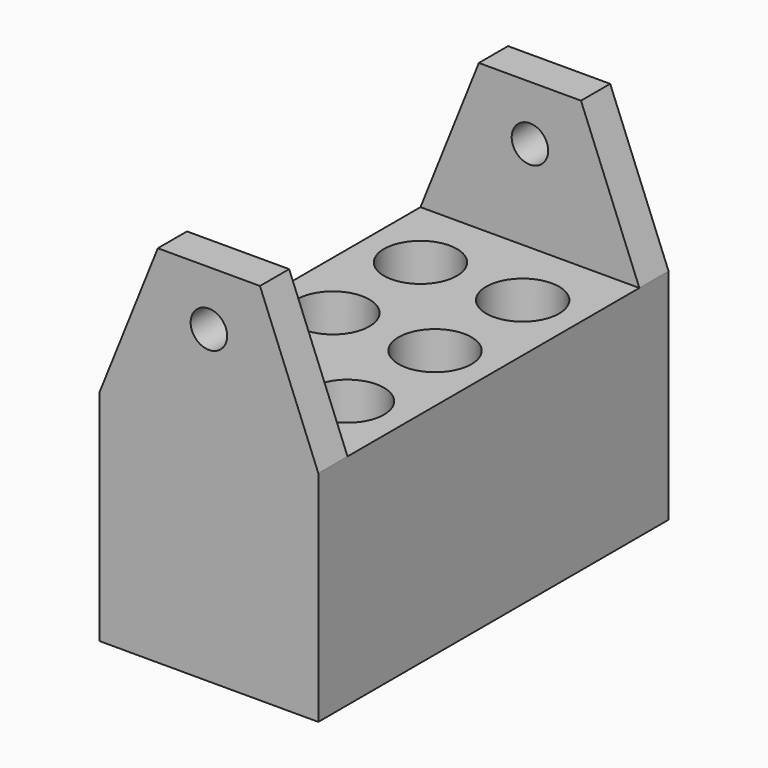
from build123d import *

# Parameters (mm, degrees)
F0_W       = 38.1
F0_H       = 76.2
F0_R       = 6.35
F1_DEPTH   = 38.1
F2_DEPTH   = 12.7
F3_W       = 38.1
F3_H       = 6.35
F4_DEPTH   = 25.4
F5_SIZE2   = 10.16
F5_SIZE    = 25.4
F6_SIZE2   = 10.16
F6_SIZE    = 25.4
F6_2_SIZE2 = 10.16
F6_2_SIZE  = 25.4
F7_R       = 3.175
F8_DEPTH   = 105.84064


with BuildPart() as f1:
    # F0 (on Top) → F1 (new body)
    with BuildSketch(Plane.XY):
        with Locations((19.05, 38.1)):
            Rectangle(F0_W, F0_H)
        with Locations((10.16, 19.05)):
            Circle(F0_R, mode=Mode.SUBTRACT)
        with Locations((27.94, 19.05)):
            Circle(F0_R, mode=Mode.SUBTRACT)
        with Locations((10.16, 38.1)):
            Circle(F0_R, mode=Mode.SUBTRACT)
        with Locations((10.16, 57.15)):
            Circle(F0_R, mode=Mode.SUBTRACT)
        with Locations((27.94, 38.1)):
            Circle(F0_R, mode=Mode.SUBTRACT)
        with Locations((27.94, 57.15)):
            Circle(F0_R, mode=Mode.SUBTRACT)
    extrude(amount=F1_DEPTH)

    # F0 (on Top) → F2 (join)
    with BuildSketch(Plane.XY):
        with Locations((10.16, 57.15)):
            Circle(F0_R)
        with Locations((27.94, 57.15)):
            Circle(F0_R)
        with Locations((27.94, 38.1)):
            Circle(F0_R)
        with Locations((10.16, 19.05)):
            Circle(F0_R)
        with Locations((27.94, 19.05)):
            Circle(F0_R)
        with Locations((10.16, 38.1)):
            Circle(F0_R)
    extrude(amount=F2_DEPTH)

    # F3 (on face) → F4 (join)
    with BuildSketch(Plane.XY.offset(38.1)):
        with Locations((19.05, 73.025)):
            Rectangle(F3_W, F3_H)
        with Locations((19.05, 3.175)):
            Rectangle(F3_W, F3_H)
    extrude(amount=F4_DEPTH)

    # F5
    f5_edges = [f1.edges().sort_by_distance(p)[0] for p in [
        (38.1, 73.025, 63.5),
        (0, 73.025, 63.5),
    ]]
    chamfer(f5_edges, length=F5_SIZE, length2=F5_SIZE2)

    # F6
    f6_edges = [f1.edges().sort_by_distance(p)[0] for p in [
        (38.1, 3.175, 63.5),
    ]]
    f6_side = f1.faces().sort_by_distance((38.1, 36.261842, 20.721053))[0]
    chamfer(f6_edges, length=F6_SIZE, length2=F6_SIZE2, reference=f6_side)

    # F6#2
    f6_2_edges = [f1.edges().sort_by_distance(p)[0] for p in [
        (0, 3.175, 63.5),
    ]]
    f6_2_side = f1.faces().sort_by_distance((0, 36.261842, 20.721053))[0]
    chamfer(f6_2_edges, length=F6_2_SIZE, length2=F6_2_SIZE2, reference=f6_2_side)

    # F7 (on face) → F8 (cut)
    with BuildSketch(Plane(origin=(0, 76.2, 0), x_dir=(-1, 0, 0), z_dir=(0, 1, 0))):
        with Locations((-19.05, 53.975)):
            Circle(F7_R)
    extrude(amount=-F8_DEPTH, mode=Mode.SUBTRACT)


solid = f1.part
